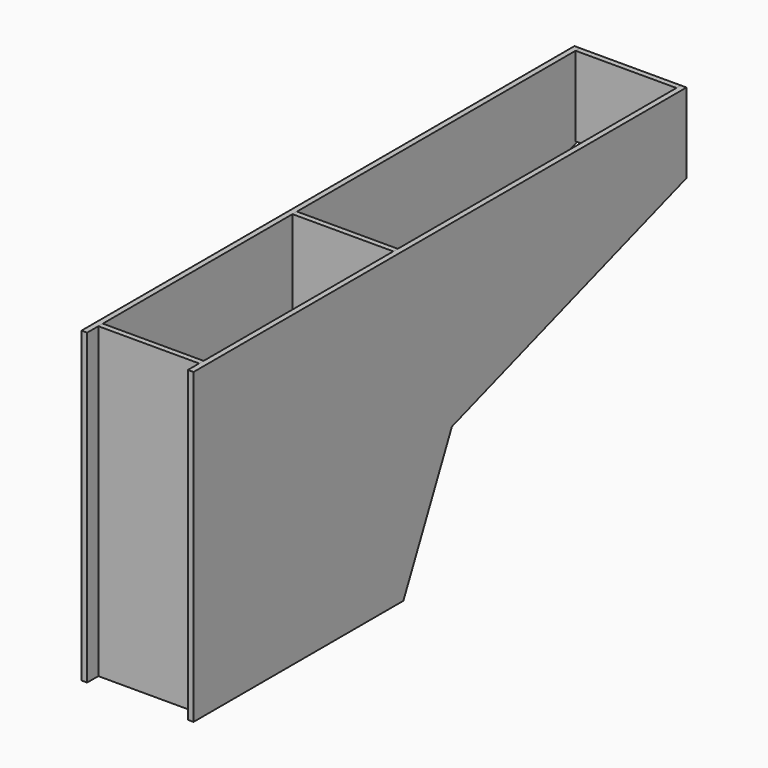
from build123d import *

# Parameters (mm, degrees)
F1_DEPTH = 20
F2_W     = 36
F2_H     = 220
F3_DEPTH = 157
F4_W     = 2
F4_H     = 110
F4_H_2   = 28.493976
F5_DEPTH = 36


with BuildPart() as f1:
    # F0 (on Right) → F1 (new body, symmetric)
    with BuildSketch(Plane.YZ):
        Polygon((76.528295, 0), (-143.471705, 0), (-143.471705, -110), (-49.817088, -110), (-28.170498, -64.056224), (76.528295, -28.493976), align=None)
    extrude(amount=F1_DEPTH, both=True)

    # F2 (on face) → F3 (cut)
    with BuildSketch(Plane.XY):
        with Locations((0, -33.471705)):
            Rectangle(F2_W, F2_H)
    extrude(amount=-F3_DEPTH, mode=Mode.SUBTRACT)


with BuildPart() as f5:
    # F4 (on face) → F5 (new body, through all)
    with BuildSketch(Plane.YZ.offset(-18)):
        with Locations((-137.471705, -55)):
            Rectangle(F4_W, F4_H)
        with Locations((-50.817088, -55)):
            Rectangle(F4_W, F4_H)
        with Locations((75.528295, -14.246988)):
            Rectangle(F4_W, F4_H_2)
    extrude(amount=F5_DEPTH)


solid = Compound([f1.part, f5.part])
